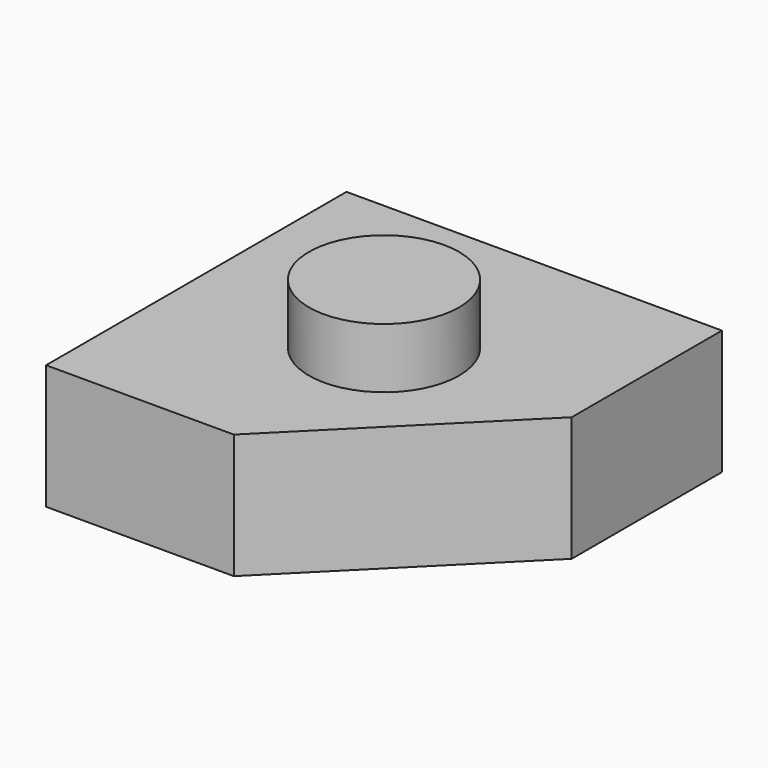
from build123d import *

# Parameters (mm, degrees)
F0_W     = 25
F0_H     = 25
F1_DEPTH = 8.3
F2_R     = 5
F3_DEPTH = 4
F5_DEPTH = 25


with BuildPart() as f1:
    # F0 (on Top) → F1 (new body)
    with BuildSketch(Plane.XY):
        Rectangle(F0_W, F0_H)
    extrude(amount=F1_DEPTH)

    # F2 (on face) → F3 (join)
    with BuildSketch(Plane.XY.offset(8.3)):
        Circle(F2_R)
    extrude(amount=F3_DEPTH)

    # F4 (on face) → F5 (cut)
    with BuildSketch(Plane.XY.offset(8.3)):
        Polygon((12.5, -12.5), (12.5, 0), (0, -12.5), align=None)
    extrude(amount=-F5_DEPTH, mode=Mode.SUBTRACT)


solid = f1.part
